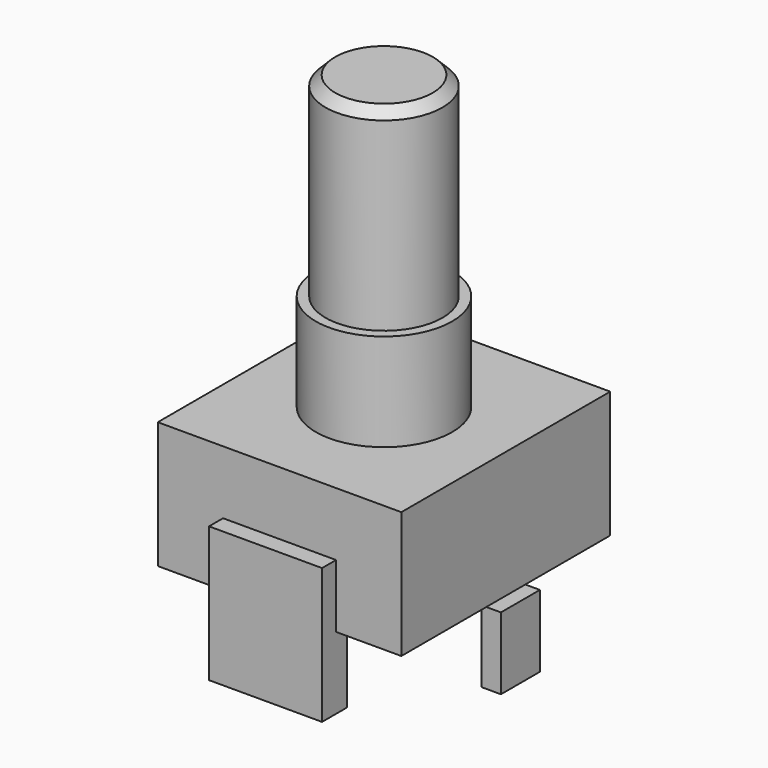
from build123d import *

# Parameters (mm, degrees)
F3_DEPTH       = 6.5
F1_R           = 3.5
F4_DEPTH       = 11.5
F2_R           = 3
F5_DEPTH       = 21.5
F6_SIZE        = 0.5
F7_W           = 1
F7_H           = 2.5
F8_DEPTH       = 3.7
F9_W           = 5.8
F9_H           = 1.6
F10_DEPTH      = 3.25
F10_DEPTH_BACK = 3.7


with BuildPart() as f3:
    # F0 (on Top) → F3 (new body)
    with BuildSketch(Plane.XY):
        Polygon((0, 11.7), (-6.25, 11.7), (-6.25, -1.7), (6.25, -1.7), (6.25, 5), (6.25, 11.7), align=None)
    extrude(amount=F3_DEPTH)

    # F1 (on Top) → F4 (join)
    with BuildSketch(Plane.XY):
        with Locations((0, 5)):
            Circle(F1_R)
    extrude(amount=F4_DEPTH)

    # F2 (on Top) → F5 (join)
    with BuildSketch(Plane.XY):
        with Locations((0, 5)):
            Circle(F2_R)
    extrude(amount=F5_DEPTH)

    # F6
    f6_edges = [f3.edges().sort_by_distance(p)[0] for p in [
        (-3, 5, 21.5),
    ]]
    chamfer(f6_edges, length=F6_SIZE)

    # F7 (on Top) → F8 (join)
    with BuildSketch(Plane.XY):
        with Locations((-6.5, 5)):
            Rectangle(F7_W, F7_H)
        with Locations((6.5, 5)):
            Rectangle(F7_W, F7_H)
    extrude(amount=-F8_DEPTH)

    # F9 (on Top) → F10 (join, two sides)
    with BuildSketch(Plane.XY) as f10_sk:
        with Locations((0, -1.8)):
            Rectangle(F9_W, F9_H)
    extrude(amount=F10_DEPTH)
    extrude(f10_sk.sketch, amount=-F10_DEPTH_BACK)


solid = f3.part
